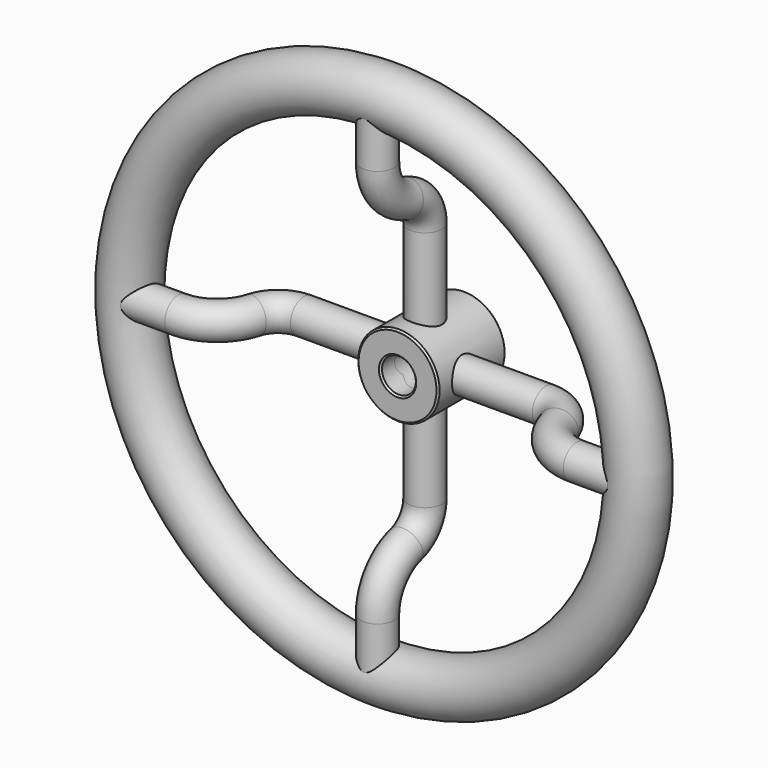
from build123d import *

# Parameters (mm, degrees)
F0_R      = 12
F0_R_2    = 5
F1_DEPTH  = 25
F2_SIZE   = 0.5
F4_R      = 8
F6_R      = 5
F9_COUNT  = 4
F10_R     = 5
F11_DEPTH = 25


with BuildPart() as f1:
    # F0 (on Front) → F1 (new body)
    with BuildSketch(Plane.XZ):
        Circle(F0_R)
        Circle(F0_R_2, mode=Mode.SUBTRACT)
    extrude(amount=F1_DEPTH)

    # F2
    f2_edges = [f1.edges().sort_by_distance(p)[0] for p in [
        (-12, -25, 0),
        (-5, -25, 0),
        (-12, 0, 0),
        (-5, 0, 0),
    ]]
    chamfer(f2_edges, length=F2_SIZE)



with BuildPart() as f5:
    # F4 (on Top) → F5 (revolve)
    with BuildSketch(Plane.XY):
        with Locations((-75, -30)):
            Circle(F4_R)
    revolve(axis=Axis((0, -5.6829899549, 0), (0, -1, 0)))


with BuildPart() as f7:
    # F7: sweep along a path in F4
    with BuildLine(Plane.XY) as f7_path:
        Line((0, -12.5), (-35.7114023677, -12.5))
        ThreePointArc((-35.7114023677, -12.5), (-42.9570907408, -14.9344367651), (-47.2629174198, -21.25))
        ThreePointArc((-47.2629174198, -21.25), (-51.5687440989, -27.5655632349), (-58.814432472, -30))
        Line((-58.814432472, -30), (-75, -30))
    # F6 (on Right) → F7 (sweep)
    with BuildSketch(Plane.YZ):
        with Locations((-14.8822675128, 0)):
            Circle(F6_R)
    sweep(path=f7_path.line)


with BuildPart() as f1_1:
    add(f1.part)

    add(f5.part)  # F9 merges F5

    add(f7.part)  # F9 merges F7
    # F9: F7 ×4 about axis
    f9_axis = Axis((0, -14.5231960341, 0), (0, 1, 0))
    for i in range(1, F9_COUNT):
        add(f7.part.rotate(f9_axis, i * 360 / F9_COUNT))

    # F10 (on face) → F11 (cut, symmetric)
    with BuildSketch(Plane.XZ.offset(25)):
        Circle(F10_R)
    extrude(amount=F11_DEPTH, both=True, mode=Mode.SUBTRACT)


solid = f1_1.part
